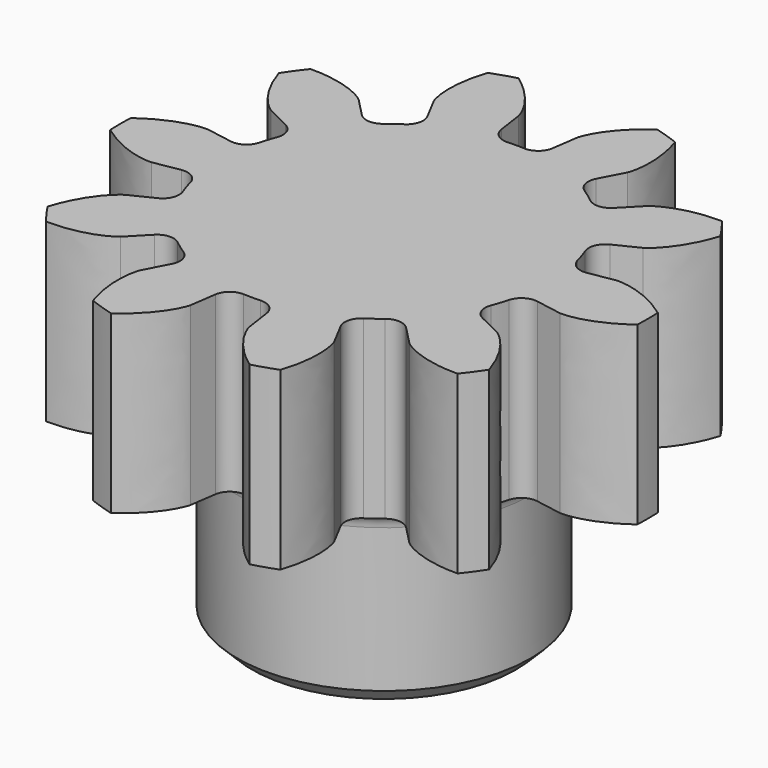
from build123d import *

# Parameters (mm, degrees)
PAD_DEPTH       = 12
SKETCH001_R     = 10
PAD001_DEPTH    = 12
SKETCH_R        = 2.875
POCKET_DEPTH    = 22
SKETCH002_R     = 1.5
POCKET001_DEPTH = 17.370151
FILLET_R        = 1.2
CHAMFER_SIZE    = 0.5
CHAMFER001_SIZE = 1
CHAMFER002_SIZE = 1
POCKET002_DEPTH = 1.5


with BuildPart() as part:
    # InvoluteGear → Pad (new body)
    with BuildSketch(Plane.XY):
        with BuildLine():
            Line((12.141947, -2.109056), (13.931972, -2.417558))
            add(Edge.make_bspline(
                [(13.931972, -2.417558), (14.131644, -2.429388), (14.932088, -2.449139), (16.354043, -2.074917), (17.978404, -0.875917)],
                knots=[0, 0, 0, 0, 0, 1, 1, 1, 1, 1], degree=4))
            ThreePointArc((17.978404, -0.875917), (17.999728, 0), (17.978404, 0.875917))
            add(Edge.make_bspline(
                [(17.978404, 0.875917), (16.354043, 2.074917), (14.932088, 2.449139), (14.131644, 2.429388), (13.931972, 2.417558)],
                knots=[0, 0, 0, 0, 0, 1, 1, 1, 1, 1], degree=4))
            Line((13.931972, 2.417558), (12.141947, 2.109056))
            ThreePointArc((12.141947, 2.109056), (11.346099, 2.267909), (10.864203, 2.92089))
            ThreePointArc((10.864203, 2.92089), (10.699386, 3.476441), (10.506181, 4.022768))
            ThreePointArc((10.506181, 4.022768), (10.512231, 4.834293), (11.062714, 5.430595))
            Line((11.062714, 5.430595), (12.692207, 6.233163))
            add(Edge.make_bspline(
                [(12.692207, 6.233163), (12.860699, 6.340955), (13.519881, 6.795466), (14.450305, 7.934022), (15.059685, 9.858808)],
                knots=[0, 0, 0, 0, 0, 1, 1, 1, 1, 1], degree=4))
            ThreePointArc((15.059685, 9.858808), (14.562086, 10.579975), (14.029983, 11.276073))
            add(Edge.make_bspline(
                [(14.029983, 11.276073), (12.011093, 11.291309), (10.640745, 10.758256), (10.004781, 10.271788), (9.850198, 10.144853)],
                knots=[0, 0, 0, 0, 0, 1, 1, 1, 1, 1], degree=4))
            Line((9.850198, 10.144853), (8.583369, 8.84312))
            ThreePointArc((8.583369, 8.84312), (7.846143, 8.503847), (7.072468, 8.748868))
            ThreePointArc((7.072468, 8.748868), (6.612584, 9.101441), (6.135155, 9.429866))
            ThreePointArc((6.135155, 9.429866), (5.663047, 10.089959), (5.7579, 10.895944))
            Line((5.7579, 10.895944), (6.60445, 12.503027))
            add(Edge.make_bspline(
                [(6.60445, 12.503027), (6.677404, 12.68927), (6.943539, 13.444434), (7.027041, 14.912435), (6.388679, 16.827805)],
                knots=[0, 0, 0, 0, 0, 1, 1, 1, 1, 1], degree=4))
            ThreePointArc((6.388679, 16.827805), (5.562222, 17.118759), (4.722585, 17.369151))
            add(Edge.make_bspline(
                [(4.722585, 17.369151), (3.080314, 16.194804), (2.284999, 14.958085), (2.056433, 14.190714), (2.005982, 13.997159)],
                knots=[0, 0, 0, 0, 0, 1, 1, 1, 1, 1], degree=4))
            Line((2.005982, 13.997159), (1.746236, 12.199412))
            ThreePointArc((1.746236, 12.199412), (1.349228, 11.491604), (0.579292, 11.235075))
            ThreePointArc((0.579292, 11.235075), (0, 11.25), (-0.579292, 11.235075))
            ThreePointArc((-0.579292, 11.235075), (-1.349228, 11.491604), (-1.746236, 12.199412))
            Line((-1.746236, 12.199412), (-2.005982, 13.997159))
            add(Edge.make_bspline(
                [(-2.005982, 13.997159), (-2.056433, 14.190714), (-2.284999, 14.958085), (-3.080314, 16.194804), (-4.722585, 17.369151)],
                knots=[0, 0, 0, 0, 0, 1, 1, 1, 1, 1], degree=4))
            ThreePointArc((-4.722585, 17.369151), (-5.562222, 17.118759), (-6.388679, 16.827805))
            add(Edge.make_bspline(
                [(-6.388679, 16.827805), (-7.027041, 14.912435), (-6.943539, 13.444434), (-6.677404, 12.68927), (-6.60445, 12.503027)],
                knots=[0, 0, 0, 0, 0, 1, 1, 1, 1, 1], degree=4))
            Line((-6.60445, 12.503027), (-5.7579, 10.895944))
            ThreePointArc((-5.7579, 10.895944), (-5.663047, 10.089959), (-6.135155, 9.429866))
            ThreePointArc((-6.135155, 9.429866), (-6.612584, 9.101441), (-7.072468, 8.748868))
            ThreePointArc((-7.072468, 8.748868), (-7.846143, 8.503847), (-8.583369, 8.84312))
            Line((-8.583369, 8.84312), (-9.850198, 10.144853))
            add(Edge.make_bspline(
                [(-9.850198, 10.144853), (-10.004781, 10.271788), (-10.640745, 10.758256), (-12.011093, 11.291309), (-14.029983, 11.276073)],
                knots=[0, 0, 0, 0, 0, 1, 1, 1, 1, 1], degree=4))
            ThreePointArc((-14.029983, 11.276073), (-14.562086, 10.579975), (-15.059685, 9.858808))
            add(Edge.make_bspline(
                [(-15.059685, 9.858808), (-14.450305, 7.934022), (-13.519881, 6.795466), (-12.860699, 6.340955), (-12.692207, 6.233163)],
                knots=[0, 0, 0, 0, 0, 1, 1, 1, 1, 1], degree=4))
            Line((-12.692207, 6.233163), (-11.062714, 5.430595))
            ThreePointArc((-11.062714, 5.430595), (-10.512231, 4.834293), (-10.506181, 4.022768))
            ThreePointArc((-10.506181, 4.022768), (-10.699386, 3.476441), (-10.864203, 2.92089))
            ThreePointArc((-10.864203, 2.92089), (-11.346099, 2.267909), (-12.141947, 2.109056))
            Line((-12.141947, 2.109056), (-13.931972, 2.417558))
            add(Edge.make_bspline(
                [(-13.931972, 2.417558), (-14.131644, 2.429388), (-14.932088, 2.449139), (-16.354043, 2.074917), (-17.978404, 0.875917)],
                knots=[0, 0, 0, 0, 0, 1, 1, 1, 1, 1], degree=4))
            ThreePointArc((-17.978404, 0.875917), (-17.999728, 0), (-17.978404, -0.875917))
            add(Edge.make_bspline(
                [(-17.978404, -0.875917), (-16.354043, -2.074917), (-14.932088, -2.449139), (-14.131644, -2.429388), (-13.931972, -2.417558)],
                knots=[0, 0, 0, 0, 0, 1, 1, 1, 1, 1], degree=4))
            Line((-13.931972, -2.417558), (-12.141947, -2.109056))
            ThreePointArc((-12.141947, -2.109056), (-11.346099, -2.267909), (-10.864203, -2.92089))
            ThreePointArc((-10.864203, -2.92089), (-10.699386, -3.476441), (-10.506181, -4.022768))
            ThreePointArc((-10.506181, -4.022768), (-10.512231, -4.834293), (-11.062714, -5.430595))
            Line((-11.062714, -5.430595), (-12.692207, -6.233163))
            add(Edge.make_bspline(
                [(-12.692207, -6.233163), (-12.860699, -6.340955), (-13.519881, -6.795466), (-14.450305, -7.934022), (-15.059685, -9.858808)],
                knots=[0, 0, 0, 0, 0, 1, 1, 1, 1, 1], degree=4))
            ThreePointArc((-15.059685, -9.858808), (-14.562086, -10.579975), (-14.029983, -11.276073))
            add(Edge.make_bspline(
                [(-14.029983, -11.276073), (-12.011093, -11.291309), (-10.640745, -10.758256), (-10.004781, -10.271788), (-9.850198, -10.144853)],
                knots=[0, 0, 0, 0, 0, 1, 1, 1, 1, 1], degree=4))
            Line((-9.850198, -10.144853), (-8.583369, -8.84312))
            ThreePointArc((-8.583369, -8.84312), (-7.846143, -8.503847), (-7.072468, -8.748868))
            ThreePointArc((-7.072468, -8.748868), (-6.612584, -9.101441), (-6.135155, -9.429866))
            ThreePointArc((-6.135155, -9.429866), (-5.663047, -10.089959), (-5.7579, -10.895944))
            Line((-5.7579, -10.895944), (-6.60445, -12.503027))
            add(Edge.make_bspline(
                [(-6.60445, -12.503027), (-6.677404, -12.68927), (-6.943539, -13.444434), (-7.027041, -14.912435), (-6.388679, -16.827805)],
                knots=[0, 0, 0, 0, 0, 1, 1, 1, 1, 1], degree=4))
            ThreePointArc((-6.388679, -16.827805), (-5.562222, -17.118759), (-4.722585, -17.369151))
            add(Edge.make_bspline(
                [(-4.722585, -17.369151), (-3.080314, -16.194804), (-2.284999, -14.958085), (-2.056433, -14.190714), (-2.005982, -13.997159)],
                knots=[0, 0, 0, 0, 0, 1, 1, 1, 1, 1], degree=4))
            Line((-2.005982, -13.997159), (-1.746236, -12.199412))
            ThreePointArc((-1.746236, -12.199412), (-1.349228, -11.491604), (-0.579292, -11.235075))
            ThreePointArc((-0.579292, -11.235075), (0, -11.25), (0.579292, -11.235075))
            ThreePointArc((0.579292, -11.235075), (1.349228, -11.491604), (1.746236, -12.199412))
            Line((1.746236, -12.199412), (2.005982, -13.997159))
            add(Edge.make_bspline(
                [(2.005982, -13.997159), (2.056433, -14.190714), (2.284999, -14.958085), (3.080314, -16.194804), (4.722585, -17.369151)],
                knots=[0, 0, 0, 0, 0, 1, 1, 1, 1, 1], degree=4))
            ThreePointArc((4.722585, -17.369151), (5.562222, -17.118759), (6.388679, -16.827805))
            add(Edge.make_bspline(
                [(6.388679, -16.827805), (7.027041, -14.912435), (6.943539, -13.444434), (6.677404, -12.68927), (6.60445, -12.503027)],
                knots=[0, 0, 0, 0, 0, 1, 1, 1, 1, 1], degree=4))
            Line((6.60445, -12.503027), (5.7579, -10.895944))
            ThreePointArc((5.7579, -10.895944), (5.663047, -10.089959), (6.135155, -9.429866))
            ThreePointArc((6.135155, -9.429866), (6.612584, -9.101441), (7.072468, -8.748868))
            ThreePointArc((7.072468, -8.748868), (7.846143, -8.503847), (8.583369, -8.84312))
            Line((8.583369, -8.84312), (9.850198, -10.144853))
            add(Edge.make_bspline(
                [(9.850198, -10.144853), (10.004781, -10.271788), (10.640745, -10.758256), (12.011093, -11.291309), (14.029983, -11.276073)],
                knots=[0, 0, 0, 0, 0, 1, 1, 1, 1, 1], degree=4))
            ThreePointArc((14.029983, -11.276073), (14.562086, -10.579975), (15.059685, -9.858808))
            add(Edge.make_bspline(
                [(15.059685, -9.858808), (14.450305, -7.934022), (13.519881, -6.795466), (12.860699, -6.340955), (12.692207, -6.233163)],
                knots=[0, 0, 0, 0, 0, 1, 1, 1, 1, 1], degree=4))
            Line((12.692207, -6.233163), (11.062714, -5.430595))
            ThreePointArc((11.062714, -5.430595), (10.512231, -4.834293), (10.506181, -4.022768))
            ThreePointArc((10.506181, -4.022768), (10.699386, -3.476441), (10.864203, -2.92089))
            ThreePointArc((10.864203, -2.92089), (11.346099, -2.267909), (12.141947, -2.109056))
        make_face()
    extrude(amount=PAD_DEPTH)

    # Sketch001 (on Face81 of Pad) → Pad001 (join)
    with BuildSketch(Plane(origin=(0, 0, 0), x_dir=(1, 0, 0), z_dir=(0, 0, -1))):
        Circle(SKETCH001_R)
    extrude(amount=PAD001_DEPTH)

    # Sketch (on Face84 of Pad001) → Pocket (cut)
    with BuildSketch(Plane(origin=(0, 0, -12), x_dir=(1, 0, 0), z_dir=(0, 0, -1))):
        Circle(SKETCH_R)
    extrude(amount=-POCKET_DEPTH, mode=Mode.SUBTRACT)

    # Sketch002 → Pocket001 (cut, through all)
    with BuildSketch(Plane.XZ):
        with Locations((0, -5)):
            Circle(SKETCH002_R)
    extrude(amount=-POCKET001_DEPTH, mode=Mode.SUBTRACT)

    # Fillet
    fillet_edges = [part.edges().sort_by_distance(p)[0] for p in [
        (-10, 0, 0),
    ]]
    fillet(fillet_edges, radius=FILLET_R)

    # Chamfer
    chamfer_edges = [part.edges().sort_by_distance(p)[0] for p in [
        (-1.5, 9.88686, -5),
    ]]
    chamfer(chamfer_edges, length=CHAMFER_SIZE)

    # Chamfer001
    chamfer001_edges = [part.edges().sort_by_distance(p)[0] for p in [
        (-10, 0, -12),
    ]]
    chamfer(chamfer001_edges, length=CHAMFER001_SIZE)

    # Chamfer002
    chamfer002_edges = [part.edges().sort_by_distance(p)[0] for p in [
        (-2.875, 0, -12),
    ]]
    chamfer(chamfer002_edges, length=CHAMFER002_SIZE)

    # Sketch003 (on DatumPlane) → Pocket002 (cut, symmetric)
    with BuildSketch(Plane.XZ.offset(-6)):
        Polygon((1.789786, -1.9), (-1.789786, -1.9), (-3.579572, -5), (-3.579572, -8.1), (3.579572, -8.1), (3.579572, -5), align=None)
    extrude(amount=POCKET002_DEPTH, both=True, mode=Mode.SUBTRACT)


solid = part.part
